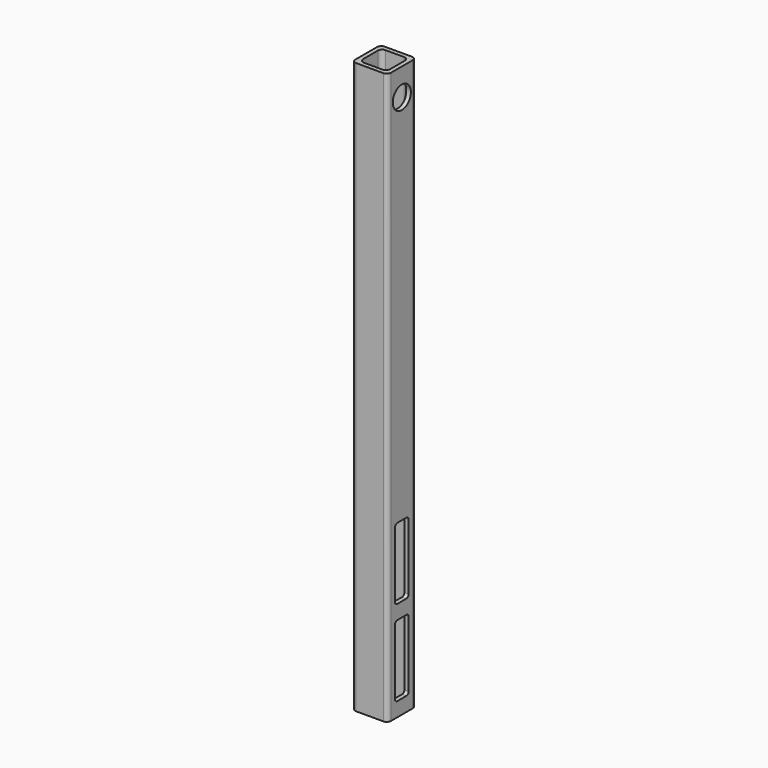
from build123d import *

# Parameters (mm, degrees)
F1_DEPTH = 400
F3_DEPTH = 25.001
F4_R     = 7.9375
F5_DEPTH = 25.001


with BuildPart() as f1:
    # F0 (on Top) → F1 (new body)
    with BuildSketch(Plane.XY):
        with BuildLine():
            ThreePointArc((12.5, 9.5), (11.62132, 11.62132), (9.5, 12.5))
            Line((9.5, 12.5), (-9.5, 12.5))
            ThreePointArc((-9.5, 12.5), (-11.62132, 11.62132), (-12.5, 9.5))
            Line((-12.5, 9.5), (-12.5, -9.5))
            ThreePointArc((-12.5, -9.5), (-11.62132, -11.62132), (-9.5, -12.5))
            Line((-9.5, -12.5), (9.5, -12.5))
            ThreePointArc((9.5, -12.5), (11.62132, -11.62132), (12.5, -9.5))
            Line((12.5, -9.5), (12.5, 9.5))
        make_face()
        with BuildLine():
            Line((-6.5, 9.5), (6.5, 9.5))
            ThreePointArc((6.5, 9.5), (8.62132, 8.62132), (9.5, 6.5))
            Line((9.5, 6.5), (9.5, -6.5))
            ThreePointArc((9.5, -6.5), (8.62132, -8.62132), (6.5, -9.5))
            Line((6.5, -9.5), (-6.5, -9.5))
            ThreePointArc((-6.5, -9.5), (-8.62132, -8.62132), (-9.5, -6.5))
            Line((-9.5, -6.5), (-9.5, 6.5))
            ThreePointArc((-9.5, 6.5), (-8.62132, 8.62132), (-6.5, 9.5))
        make_face(mode=Mode.SUBTRACT)
    extrude(amount=F1_DEPTH)

    # F2 (on face) → F3 (cut, through all)
    with BuildSketch(Plane(origin=(-12.5, 0, 0), x_dir=(0, -1, 0), z_dir=(-1, 0, 0))):
        with BuildLine():
            ThreePointArc((6, 58), (5.414214, 59.414214), (4, 60))
            Line((4, 60), (-4, 60))
            ThreePointArc((-4, 60), (-5.414214, 59.414214), (-6, 58))
            Line((-6, 58), (-6, 12))
            ThreePointArc((-6, 12), (-5.414214, 10.585786), (-4, 10))
            Line((-4, 10), (4, 10))
            ThreePointArc((4, 10), (5.414214, 10.585786), (6, 12))
            Line((6, 12), (6, 58))
        make_face()
        with BuildLine():
            ThreePointArc((6, 118), (5.414214, 119.414214), (4, 120))
            Line((4, 120), (-4, 120))
            ThreePointArc((-4, 120), (-5.414214, 119.414214), (-6, 118))
            Line((-6, 118), (-6, 72))
            ThreePointArc((-6, 72), (-5.414214, 70.585786), (-4, 70))
            Line((-4, 70), (4, 70))
            ThreePointArc((4, 70), (5.414214, 70.585786), (6, 72))
            Line((6, 72), (6, 118))
        make_face()
    extrude(amount=-F3_DEPTH, mode=Mode.SUBTRACT)

    # F4 (on face) → F5 (cut, through all)
    with BuildSketch(Plane.YZ.offset(12.5)):
        with Locations((0, 381)):
            Circle(F4_R)
    extrude(amount=-F5_DEPTH, mode=Mode.SUBTRACT)


solid = f1.part
